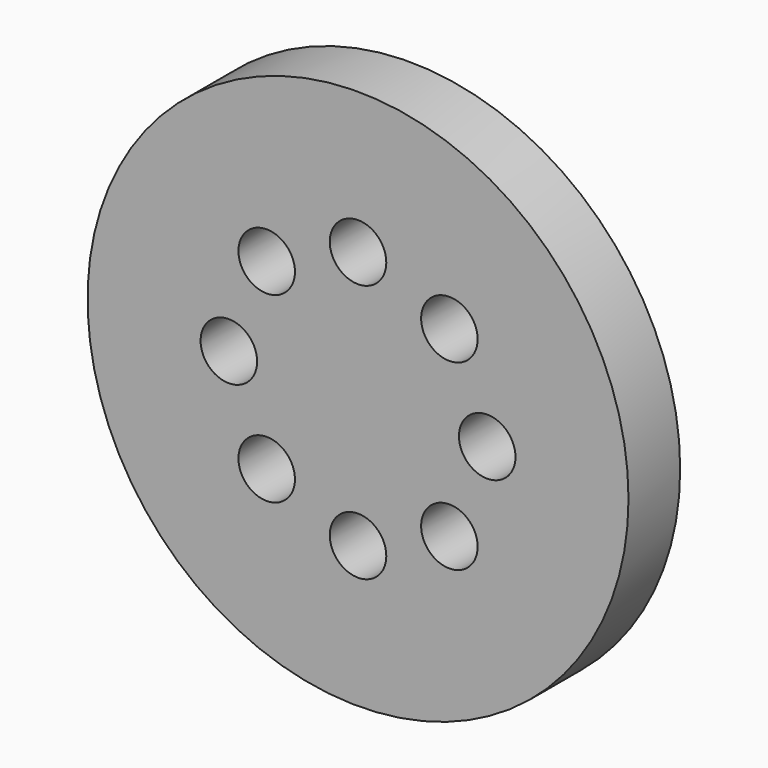
from build123d import *

# Parameters (mm, degrees)
F0_R     = 17.018
F2_DEPTH = 4.064
F1_R     = 1.778
F3_DEPTH = 25.4


with BuildPart() as f2:
    # F0 (on Front) → F2 (new body)
    with BuildSketch(Plane.XZ):
        Circle(F0_R)
    extrude(amount=F2_DEPTH)

    # F1 (on face) → F3 (cut)
    with BuildSketch(Plane.XZ):
        with Locations((0, 8.128)):
            Circle(F1_R)
        with Locations((-5.747364, 5.747364)):
            Circle(F1_R)
        with Locations((-8.128, 0)):
            Circle(F1_R)
        with Locations((-5.747364, -5.747364)):
            Circle(F1_R)
        with Locations((0, -8.128)):
            Circle(F1_R)
        with Locations((5.747364, -5.747364)):
            Circle(F1_R)
        with Locations((8.128, 0)):
            Circle(F1_R)
        with Locations((5.747364, 5.747364)):
            Circle(F1_R)
    extrude(amount=F3_DEPTH, mode=Mode.SUBTRACT)


solid = f2.part
